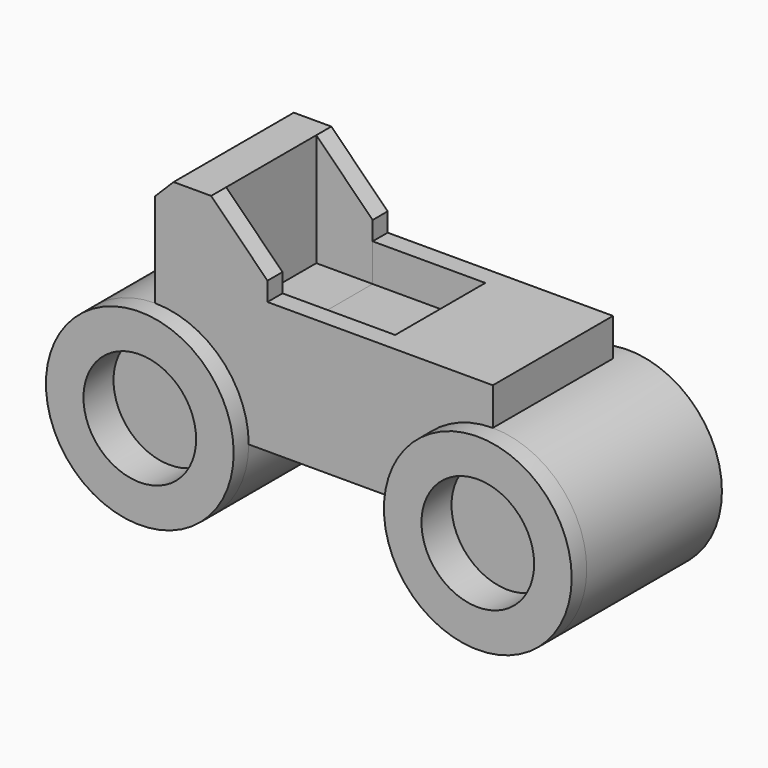
from build123d import *

# Parameters (mm, degrees)
F0_W      = 90
F0_H      = 55
F1_DEPTH  = 40
F2_R      = 25
F3_DEPTH  = 45
F4_R      = 25
F5_DEPTH  = 5
F6_W      = 60
F6_H      = 40
F7_DEPTH  = 20
F8_W      = 30
F8_H      = 30
F9_DEPTH  = 10
F10_W     = 15
F10_H     = 30
F11_DEPTH = 30
F13_DEPTH = 45.001
F14_R     = 15
F15_DEPTH = 10
F16_R     = 15
F17_DEPTH = 10
F18_R     = 15
F19_DEPTH = 10
F20_R     = 15
F21_DEPTH = 10


with BuildPart() as f1:
    # F0 (on Front) → F1 (new body)
    with BuildSketch(Plane.XZ):
        Rectangle(F0_W, F0_H)
    extrude(amount=F1_DEPTH)

    # F2 (on face) → F3 (join)
    with BuildSketch(Plane.XZ.offset(40)):
        with Locations((-45, -27.5)):
            Circle(F2_R)
        with Locations((45, -27.5)):
            Circle(F2_R)
    extrude(amount=-F3_DEPTH)

    # F4 (on face) → F5 (join)
    with BuildSketch(Plane.XZ.offset(40)):
        with Locations((-45, -27.5)):
            Circle(F4_R)
        with Locations((45, -27.5)):
            Circle(F4_R)
    extrude(amount=F5_DEPTH)

    # F6 (on face) → F7 (cut)
    with BuildSketch(Plane.XY.offset(27.5)):
        with Locations((15, -20)):
            Rectangle(F6_W, F6_H)
    extrude(amount=-F7_DEPTH, mode=Mode.SUBTRACT)

    # F8 (on face) → F9 (cut)
    with BuildSketch(Plane.XY.offset(7.5)):
        with Locations((0, -20)):
            Rectangle(F8_W, F8_H)
    extrude(amount=-F9_DEPTH, mode=Mode.SUBTRACT)

    # F10 (on face) → F11 (cut)
    with BuildSketch(Plane.XY.offset(27.5)):
        with Locations((-22.5, -20)):
            Rectangle(F10_W, F10_H)
    extrude(amount=-F11_DEPTH, mode=Mode.SUBTRACT)

    # F12 (on face) → F13 (cut, through all)
    with BuildSketch(Plane.XZ.offset(40)):
        Polygon((-15, 27.5), (-30, 27.5), (-15, 12.5), align=None)
        Polygon((-45, 22.5), (-40, 27.5), (-45, 27.5), align=None)
    extrude(amount=-F13_DEPTH, mode=Mode.SUBTRACT)

    # F14 (on face) → F15 (cut)
    with BuildSketch(Plane.XZ.offset(45)):
        with Locations((-45, -27.5)):
            Circle(F14_R)
    extrude(amount=-F15_DEPTH, mode=Mode.SUBTRACT)

    # F16 (on face) → F17 (cut)
    with BuildSketch(Plane.XZ.offset(45)):
        with Locations((45, -27.5)):
            Circle(F16_R)
    extrude(amount=-F17_DEPTH, mode=Mode.SUBTRACT)

    # F18 (on face) → F19 (cut)
    with BuildSketch(Plane(origin=(0, 5, 0), x_dir=(-1, 0, 0), z_dir=(0, 1, 0))):
        with Locations((-45, -27.5)):
            Circle(F18_R)
    extrude(amount=-F19_DEPTH, mode=Mode.SUBTRACT)

    # F20 (on face) → F21 (cut)
    with BuildSketch(Plane(origin=(0, 5, 0), x_dir=(-1, 0, 0), z_dir=(0, 1, 0))):
        with Locations((45, -27.5)):
            Circle(F20_R)
    extrude(amount=-F21_DEPTH, mode=Mode.SUBTRACT)


solid = f1.part
